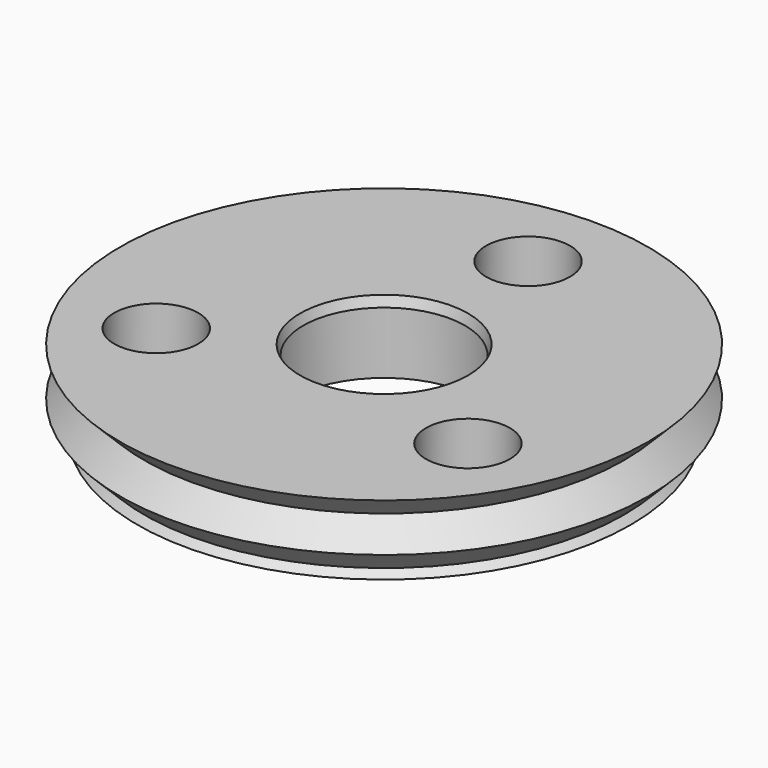
from build123d import *

# Parameters (mm, degrees)
SKETCH019_W    = 10
SKETCH019_H    = 2.7812096768
SKETCH005_W    = 10
SKETCH005_H    = 2.2955317108
CYLINDER_R     = 1.4
CYLINDER_DEPTH = 10
ARRAY001_COUNT = 3
SKETCH018_W    = 3.15
SKETCH018_H    = 2.3
SKETCH002_W    = 5
SKETCH002_H    = 6.8
ARRAY_Z_COUNT  = 6
ARRAY_Z_PITCH  = 1.6


with BuildPart() as obj1:
    # Sketch019 → Revolution008 (revolve)
    with BuildSketch(Plane.XZ):
        with Locations((5, 3.1861365492)):
            Rectangle(SKETCH019_W, SKETCH019_H)
    revolve(axis=Axis((0, 0, 0), (0, 0, 1)))


with BuildPart() as clone_of_lowerdomain001:
    # Sketch005 → Revolution004 (revolve)
    with BuildSketch(Plane.XZ):
        with Locations((5, 0.6477658554)):
            Rectangle(SKETCH005_W, SKETCH005_H)
    revolve(axis=Axis((0, 0, 0), (0, 0, 1)))


with BuildPart() as boltholes:
    # Cylinder → Cylinder (new body)
    with BuildSketch(Plane(origin=(0, 6, -1), x_dir=(1, 0, 0), z_dir=(0, 0, 1))):
        Circle(CYLINDER_R)
    extrude(amount=CYLINDER_DEPTH)

    # Array001: BoltHoles ×3 about axis
    array001_axis = Axis((0, 0, 0), (0, 0, 1))


with BuildPart() as boltholes_1:
    add(boltholes.part)
    for i in range(1, ARRAY001_COUNT):
        add(boltholes.part.rotate(array001_axis, i * 360 / ARRAY001_COUNT))


with BuildPart() as obj2:
    # Sketch018 → Revolution007 (revolve)
    with BuildSketch(Plane.XZ):
        with Locations((1.575, 5.7267413876)):
            Rectangle(SKETCH018_W, SKETCH018_H)
    revolve(axis=Axis((0, 0, 0), (0, 0, 1)))


with BuildPart() as obj3:
    # Sketch007 → Revolution006 (revolve)
    with BuildSketch(Plane.XZ):
        with BuildLine():
            ThreePointArc((1.5, 1.7955317108), (0.867020761, 2.4322916436), (0, 2.6655317108))
            Line((0, 2.6655317108), (0, 0.7955317108))
            Line((0, 0.7955317108), (1.5, 0.7955317108))
            Line((1.5, 1.7955317108), (1.5, 0.7955317108))
        make_face()
    revolve(axis=Axis((0, 0, 0), (0, 0, 1)))


with BuildPart() as obj4:
    # Sketch002 → Revolution002 (revolve)
    with BuildSketch(Plane.XZ):
        with Locations((7.5, 3.8)):
            Rectangle(SKETCH002_W, SKETCH002_H)
    revolve(axis=Axis((0, 0, 0), (0, 0, 1)))


with BuildPart() as innergroovetool:
    # Sketch001 → Revolution001 (revolve)
    with BuildSketch(Plane.XZ):
        Polygon((4, 8), (4, 6.4), (8, 6.4), (8.8, 7.2), (8, 8), align=None)
    revolve(axis=Axis((0, 0, 0), (0, 0, 1)))

    # Array Z: InnerGrooveTool ×6


with BuildPart() as innergroovetool_1:
    add(innergroovetool.part)
    with Locations(*[(0, 0, -i * ARRAY_Z_PITCH) for i in range(1, ARRAY_Z_COUNT)]):
        add(innergroovetool.part)

    # Common: intersect obj4
    add(obj4.part, mode=Mode.INTERSECT)


with BuildPart() as obj5:
    # Sketch → Revolution (revolve)
    with BuildSketch(Plane.XZ):
        Polygon((1.2, 0.4), (8, 0.4), (8, 7.2), (2.8, 7.2), (1.2, 2.2), align=None)
    revolve(axis=Axis((0, 0, 0), (0, 0, 1)))

    # Fusion001: union InnerGrooveTool
    add(innergroovetool_1.part)

    # Cut: cut obj3
    add(obj3.part, mode=Mode.SUBTRACT)

    # Cut003: cut obj2
    add(obj2.part, mode=Mode.SUBTRACT)

    # Cut001: cut BoltHoles
    add(boltholes_1.part, mode=Mode.SUBTRACT)

    # Cut002: cut Clone of LowerDomain001
    add(clone_of_lowerdomain001.part, mode=Mode.SUBTRACT)

    # Cut004: cut obj1
    add(obj1.part, mode=Mode.SUBTRACT)


solid = obj5.part
